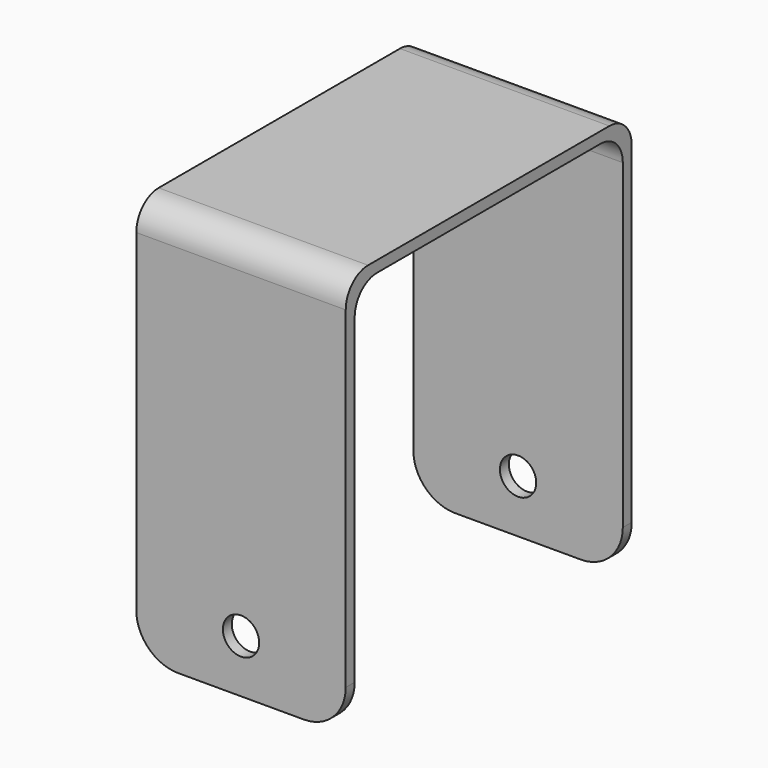
from build123d import *

# Parameters (mm, degrees)
F1_DEPTH = 75
F3_D     = 13
F3_DEPTH = 500
F4_R     = 15


with BuildPart() as f1:
    # F0 (on Right) → F1 (new body)
    with BuildSketch(Plane.YZ):
        with BuildLine():
            Line((-64, 134), (-64, 0))
            Line((-64, 0), (-60, 0))
            Line((-60, 0), (-60, 130))
            ThreePointArc((-60, 130), (-57.071068, 137.071068), (-50, 140))
            Line((-50, 140), (50, 140))
            ThreePointArc((50, 140), (57.071068, 137.071068), (60, 130))
            Line((60, 130), (60, 0))
            Line((60, 0), (64, 0))
            Line((64, 0), (64, 134))
            ThreePointArc((64, 134), (61.071068, 141.071068), (54, 144))
            Line((54, 144), (-54, 144))
            ThreePointArc((-54, 144), (-61.071068, 141.071068), (-64, 134))
        make_face()
    extrude(amount=F1_DEPTH)

    # F3
    with Locations(Plane.XZ.offset(64)):
        with Locations((37.5, 19)):
            Hole(F3_D / 2, depth=F3_DEPTH)

    # F4
    f4_edges = [f1.edges().sort_by_distance(p)[0] for p in [
        (0, -62, 0),
        (75, -62, 0),
        (75, 62, 0),
        (0, 62, 0),
    ]]
    fillet(f4_edges, radius=F4_R)


solid = f1.part
